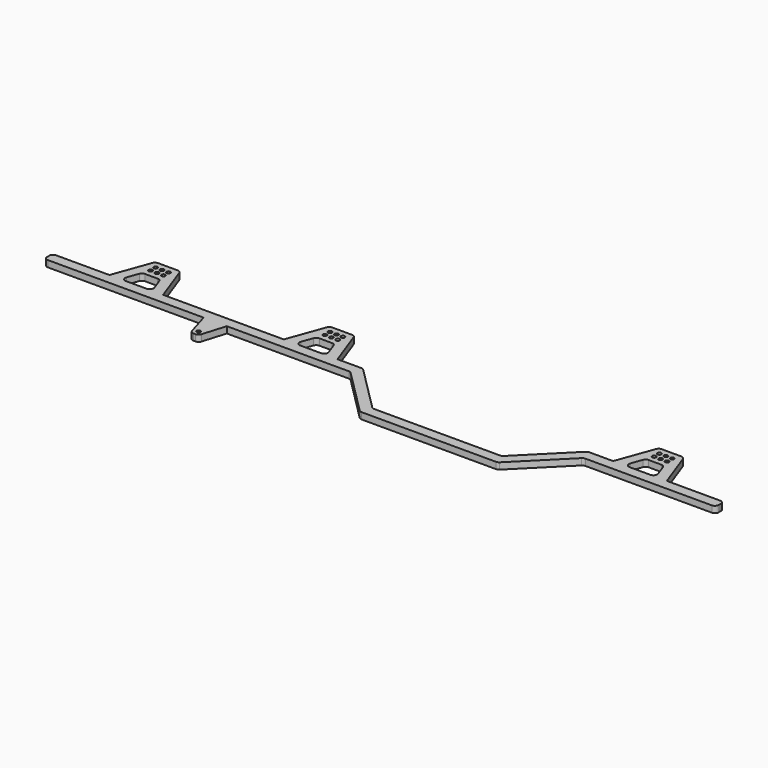
from build123d import *

# Parameters (mm, degrees)
SKETCH_R  = 1.5
PAD_DEPTH = 5
FILLET_R  = 3


with BuildPart() as part:
    # Sketch → Pad (new body)
    with BuildSketch(Plane.XY):
        Polygon((0, 45), (44.209009, 45), (55.310102, 75.5), (74.689898, 75.5), (85.790991, 45), (179.209009, 45), (190.310102, 75.5), (209.689898, 75.5), (220.790991, 45), (240.5, 45), (277.5, 8), (377.5, 8), (414.5, 45), (434.209009, 45), (445.310102, 75.5), (464.689898, 75.5), (475.790991, 45), (520, 45), (520, 37), (417.813708, 37), (380.813708, 0), (274.186292, 0), (237.186292, 37), (141.5, 37), (135.472158, 17), (129.527842, 17), (123.5, 37), (0, 37), align=None)
        with Locations((60, 70)):
            Circle(SKETCH_R, mode=Mode.SUBTRACT)
        with Locations((65, 70)):
            Circle(SKETCH_R, mode=Mode.SUBTRACT)
        with Locations((70, 70)):
            Circle(SKETCH_R, mode=Mode.SUBTRACT)
        with Locations((60, 65)):
            Circle(SKETCH_R, mode=Mode.SUBTRACT)
        with Locations((65, 65)):
            Circle(SKETCH_R, mode=Mode.SUBTRACT)
        with Locations((70, 65)):
            Circle(SKETCH_R, mode=Mode.SUBTRACT)
        with Locations((195, 70)):
            Circle(SKETCH_R, mode=Mode.SUBTRACT)
        with Locations((200, 70)):
            Circle(SKETCH_R, mode=Mode.SUBTRACT)
        with Locations((205, 70)):
            Circle(SKETCH_R, mode=Mode.SUBTRACT)
        with Locations((195, 65)):
            Circle(SKETCH_R, mode=Mode.SUBTRACT)
        with Locations((200, 65)):
            Circle(SKETCH_R, mode=Mode.SUBTRACT)
        with Locations((205, 65)):
            Circle(SKETCH_R, mode=Mode.SUBTRACT)
        with Locations((450, 70)):
            Circle(SKETCH_R, mode=Mode.SUBTRACT)
        with Locations((455, 70)):
            Circle(SKETCH_R, mode=Mode.SUBTRACT)
        with Locations((460, 70)):
            Circle(SKETCH_R, mode=Mode.SUBTRACT)
        with Locations((450, 65)):
            Circle(SKETCH_R, mode=Mode.SUBTRACT)
        with Locations((455, 65)):
            Circle(SKETCH_R, mode=Mode.SUBTRACT)
        with Locations((460, 65)):
            Circle(SKETCH_R, mode=Mode.SUBTRACT)
        with Locations((132.5, 21)):
            Circle(SKETCH_R, mode=Mode.SUBTRACT)
        Polygon((52.722432, 45), (58, 59.5), (72, 59.5), (77.277568, 45), align=None, mode=Mode.SUBTRACT)
        Polygon((187.722432, 45), (193, 59.5), (207, 59.5), (212.277568, 45), align=None, mode=Mode.SUBTRACT)
        Polygon((442.722432, 45), (448, 59.5), (462, 59.5), (467.277568, 45), align=None, mode=Mode.SUBTRACT)
    extrude(amount=PAD_DEPTH)

    # Fillet
    fillet_edges = [part.edges().sort_by_distance(p)[0] for p in [
        (0, 45, 2.5),
        (55.310102, 75.5, 2.5),
        (74.689898, 75.5, 2.5),
        (190.310102, 75.5, 2.5),
        (209.689898, 75.5, 2.5),
        (240.5, 45, 2.5),
        (277.5, 8, 2.5),
        (377.5, 8, 2.5),
        (414.5, 45, 2.5),
        (445.310102, 75.5, 2.5),
        (464.689898, 75.5, 2.5),
        (520, 45, 2.5),
        (520, 37, 2.5),
        (417.813708, 37, 2.5),
        (380.813708, 0, 2.5),
        (274.186292, 0, 2.5),
        (237.186292, 37, 2.5),
        (135.472158, 17, 2.5),
        (129.527842, 17, 2.5),
        (0, 37, 2.5),
        (187.722432, 45, 2.5),
        (193, 59.5, 2.5),
        (207, 59.5, 2.5),
        (212.277568, 45, 2.5),
        (52.722432, 45, 2.5),
        (58, 59.5, 2.5),
        (72, 59.5, 2.5),
        (77.277568, 45, 2.5),
        (442.722432, 45, 2.5),
        (448, 59.5, 2.5),
        (462, 59.5, 2.5),
        (467.277568, 45, 2.5),
    ]]
    fillet(fillet_edges, radius=FILLET_R)


solid = part.part
